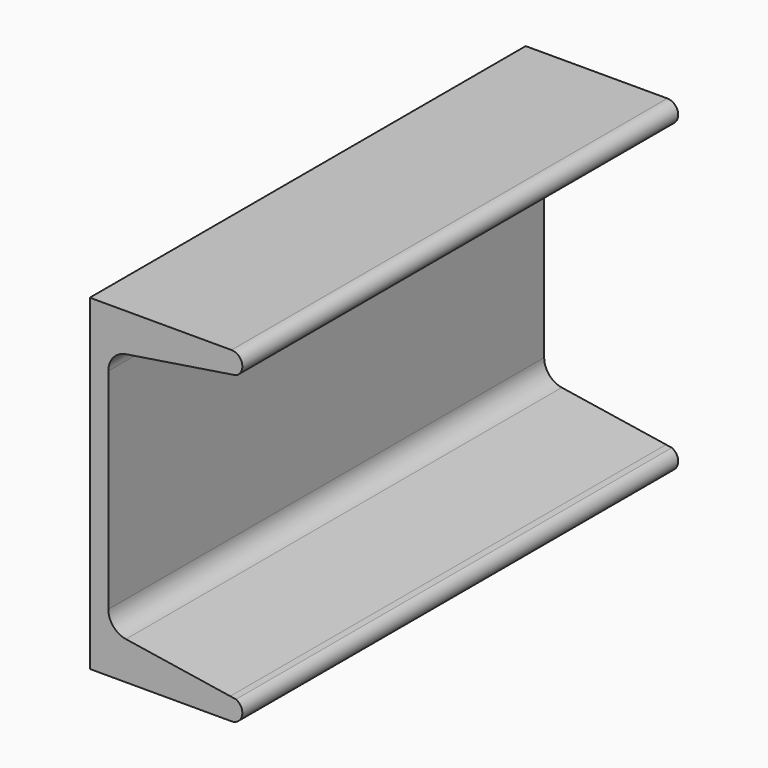
from build123d import *

# Parameters (mm, degrees)
F1_DEPTH = 63.5


with BuildPart() as f1:
    # F0 (on Front) → F1 (new body, symmetric)
    with BuildSketch(Plane.XZ):
        with BuildLine():
            Line((33.02, 38.1), (0, 38.1))
            Line((0, 38.1), (0, 0))
            Line((0, 0), (0, -38.1))
            Line((0, -38.1), (33.02, -38.1))
            ThreePointArc((33.02, -38.1), (35.502395, -36.097882), (34.071366, -33.247808))
            Line((34.071366, -33.247808), (32.724711, -33.037223))
            Line((32.724711, -33.037223), (8.423599, -29.237091))
            ThreePointArc((8.423599, -29.237091), (5.484684, -27.59914), (4.318, -24.44336))
            Line((4.318, -24.44336), (4.318, 0))
            Line((4.318, 0), (4.318, 24.44336))
            ThreePointArc((4.318, 24.44336), (5.484684, 27.59914), (8.423599, 29.237091))
            Line((8.423599, 29.237091), (32.724711, 33.037223))
            Line((32.724711, 33.037223), (34.071366, 33.247808))
            ThreePointArc((34.071366, 33.247808), (35.502395, 36.097882), (33.02, 38.1))
        make_face()
    extrude(amount=F1_DEPTH, both=True)


solid = f1.part
